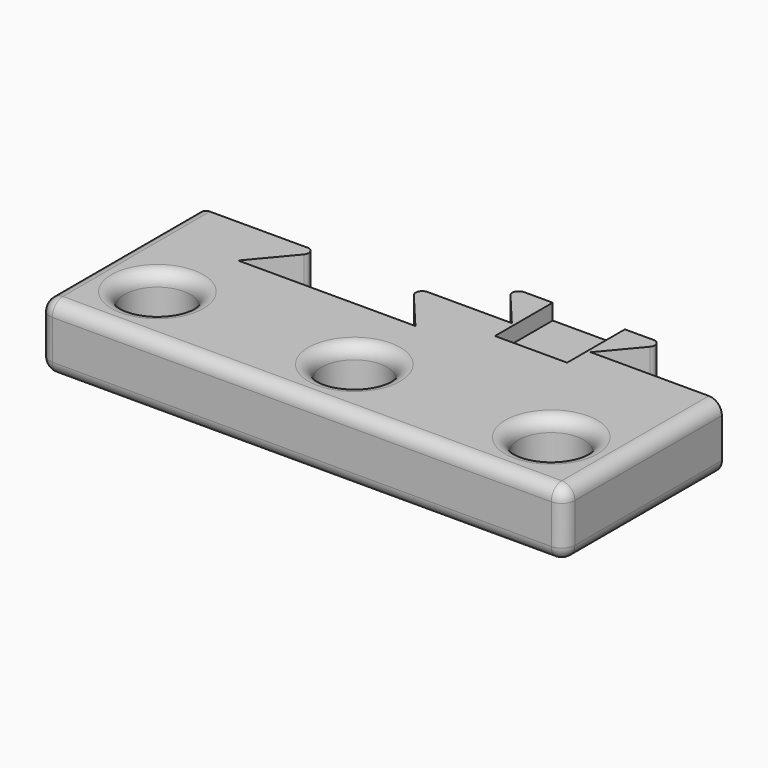
from build123d import *

# Parameters (mm, degrees)
F0_W      = 40
F0_H      = 15
F1_DEPTH  = 5
F2_R      = 2.5
F3_DEPTH  = 5.001
F5_DEPTH  = 2.5
F7_DEPTH  = 2.7
F8_R      = 1
F9_R      = 1
F10_R     = 0.5
F11_W     = 5.5
F11_H     = 5.5
F12_DEPTH = 1.2
F13_W     = 5.5
F13_H     = 5.5
F14_DEPTH = 1.2


with BuildPart() as f1:
    # F0 (on Top) → F1 (new body)
    with BuildSketch(Plane.XY):
        with Locations((20, 7.5)):
            Rectangle(F0_W, F0_H)
    extrude(amount=F1_DEPTH)

    # F2 (on face) → F3 (cut, through all)
    with BuildSketch(Plane.XY.offset(5)):
        with Locations((5, 5)):
            Circle(F2_R)
        with Locations((20, 5)):
            Circle(F2_R)
        with Locations((35, 5)):
            Circle(F2_R)
    extrude(amount=-F3_DEPTH, mode=Mode.SUBTRACT)

    # F4 (on face) → F5 (join)
    with BuildSketch(Plane.XY.offset(5)):
        Polygon((21, 18.5752607778), (24, 15), (30, 15), (33, 18.5752607778), align=None)
    extrude(amount=-F5_DEPTH)

    # F6 (on face) → F7 (cut)
    with BuildSketch(Plane.XY.offset(5)):
        Polygon((16.5, 15), (9.5, 15), (6.25, 11.1268008241), (19.75, 11.1268008241), align=None)
    extrude(amount=-F7_DEPTH, mode=Mode.SUBTRACT)

    # F8
    f8_edges = [f1.edges().sort_by_distance(p)[0] for p in [
        (0, 0, 2.5),
        (40, 0, 2.5),
        (0, 7.5, 5),
        (0, 7.5, 0),
        (40, 7.5, 5),
        (40, 7.5, 0),
        (20, 0, 5),
        (20, 0, 0),
    ]]
    fillet(f8_edges, radius=F8_R)

    # F9
    f9_edges = [f1.edges().sort_by_distance(p)[0] for p in [
        (2.5, 5, 5),
        (17.5, 5, 5),
        (32.5, 5, 5),
        (2.5, 5, 0),
        (17.5, 5, 0),
        (32.5, 5, 0),
    ]]
    fillet(f9_edges, radius=F9_R)

    # F10
    f10_edges = [f1.edges().sort_by_distance(p)[0] for p in [
        (21, 18.575261, 3.75),
        (33, 18.575261, 3.75),
        (9.5, 15, 3.65),
        (16.5, 15, 3.65),
    ]]
    fillet(f10_edges, radius=F10_R)

    # F11 (on face) → F12 (cut)
    with BuildSketch(Plane.XY.offset(5)):
        with Locations((27, 15.8252607778)):
            Rectangle(F11_W, F11_H)
    extrude(amount=-F12_DEPTH, mode=Mode.SUBTRACT)

    # F13 (on face) → F14 (cut)
    with BuildSketch(Plane(origin=(0, 0, 0), x_dir=(1, 0, 0), z_dir=(0, 0, -1))):
        with Locations((13, -12.25)):
            Rectangle(F13_W, F13_H)
    extrude(amount=-F14_DEPTH, mode=Mode.SUBTRACT)


solid = f1.part
